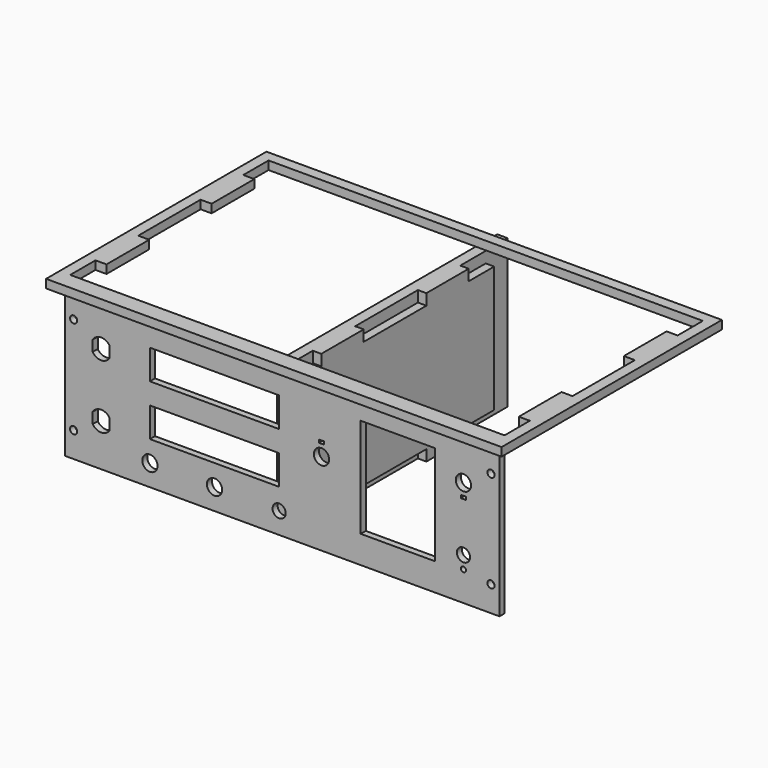
from build123d import *

# Parameters (mm, degrees)
SKETCH008_W   = 205
SKETCH008_H   = 70
SKETCH008_R   = 3.6
SKETCH008_R_2 = 3.1
SKETCH008_R_3 = 1.2
SKETCH008_R_4 = 1.7
SKETCH008_W_2 = 61
SKETCH008_H_2 = 14
SKETCH008_W_3 = 2.5
SKETCH008_H_3 = 1.4
SKETCH008_W_4 = 35
SKETCH008_H_4 = 47
PAD_DEPTH     = 3
SKETCH009_W   = 215
SKETCH009_H   = 130
PAD001_DEPTH  = 4
PAD002_DEPTH  = 4
PAD003_DEPTH  = 5


with BuildPart() as obj1:
    # Sketch008 → Pad (new body)
    with BuildSketch(Plane.XZ):
        with Locations((0, -35)):
            Rectangle(SKETCH008_W, SKETCH008_H)
        with Locations((85.5, -20)):
            Circle(SKETCH008_R, mode=Mode.SUBTRACT)
        with Locations((18.5, -31)):
            Circle(SKETCH008_R, mode=Mode.SUBTRACT)
        with Locations((85.5, -50)):
            Circle(SKETCH008_R_2, mode=Mode.SUBTRACT)
        with Locations((85.5, -56)):
            Circle(SKETCH008_R_3, mode=Mode.SUBTRACT)
        with Locations((-62.5, -60)):
            Circle(SKETCH008_R, mode=Mode.SUBTRACT)
        with Locations((-32, -60)):
            Circle(SKETCH008_R, mode=Mode.SUBTRACT)
        with Locations((-1.5, -60)):
            Circle(SKETCH008_R_2, mode=Mode.SUBTRACT)
        with Locations((-98.5, -12)):
            Circle(SKETCH008_R_4, mode=Mode.SUBTRACT)
        with Locations((-98.5, -58)):
            Circle(SKETCH008_R_4, mode=Mode.SUBTRACT)
        with Locations((98.5, -12)):
            Circle(SKETCH008_R_4, mode=Mode.SUBTRACT)
        with Locations((98.5, -58)):
            Circle(SKETCH008_R_4, mode=Mode.SUBTRACT)
        with Locations((-32, -19)):
            Rectangle(SKETCH008_W_2, SKETCH008_H_2, mode=Mode.SUBTRACT)
        with Locations((-32, -43)):
            Rectangle(SKETCH008_W_2, SKETCH008_H_2, mode=Mode.SUBTRACT)
        with Locations((85.5, -26.1)):
            Rectangle(SKETCH008_W_3, SKETCH008_H_3, mode=Mode.SUBTRACT)
        with Locations((54.5, -33.5)):
            Rectangle(SKETCH008_W_4, SKETCH008_H_4, mode=Mode.SUBTRACT)
        with Locations((18.5, -24.9)):
            Rectangle(SKETCH008_W_3, SKETCH008_H_3, mode=Mode.SUBTRACT)
        with BuildLine():
            Line((-89.5, -17.438262), (-89.5, -22.561738))
            ThreePointArc((-89.5, -22.561738), (-85.5, -24.75), (-81.5, -22.561738))
            Line((-81.5, -17.438262), (-81.5, -22.561738))
            ThreePointArc((-81.5, -17.438262), (-85.5, -15.25), (-89.5, -17.438262))
        make_face(mode=Mode.SUBTRACT)
        with BuildLine():
            Line((-89.5, -47.438262), (-89.5, -52.561738))
            ThreePointArc((-89.5, -52.561738), (-85.5, -54.75), (-81.5, -52.561738))
            Line((-81.5, -47.438262), (-81.5, -52.561738))
            ThreePointArc((-81.5, -47.438262), (-85.5, -45.25), (-89.5, -47.438262))
        make_face(mode=Mode.SUBTRACT)
    extrude(amount=PAD_DEPTH)


with BuildPart() as obj2:
    # Sketch009 → Pad001 (new body)
    with BuildSketch(Plane.XY):
        with Locations((0, 57)):
            Rectangle(SKETCH009_W, SKETCH009_H)
        Polygon((-102.5, 117), (102.5, 117), (102.5, 102.1), (97.3, 102.1), (97.3, 76.9), (102.5, 76.9), (102.5, 40.1), (97.3, 40.1), (97.3, 14.9), (102.5, 14.9), (102.5, 0), (-102.5, 0), (-102.5, 14.9), (-97.3, 14.9), (-97.3, 40.1), (-102.5, 40.1), (-102.5, 76.9), (-97.3, 76.9), (-97.3, 102.1), (-102.5, 102.1), align=None, mode=Mode.SUBTRACT)
    extrude(amount=PAD001_DEPTH)


with BuildPart() as obj3:
    # Sketch010 → Pad002 (new body)
    with BuildSketch(Plane.YZ):
        Polygon((15, -0.255779), (40, -0.255779), (40, -5.455779), (77, -5.455779), (77, -0.255779), (102, -0.255779), (102, -5.455779), (117, -5.455779), (117, -65.055779), (102, -65.055779), (102, -70.255779), (77, -70.255779), (77, -65.055779), (40, -65.055779), (40, -70.255779), (15, -70.255779), (15, -65.055779), (0, -65.055779), (0, -5.455779), (15, -5.455779), align=None)
    extrude(amount=PAD002_DEPTH)

    # Sketch011 → Pad003 (join)
    with BuildSketch(Plane.YZ):
        Polygon((15, -0.255779), (40, -0.255779), (90, -0.255779), (115, -0.255779), (130, -0.255779), (130, -5.455779), (130, -65.055779), (130, -70.255779), (115, -70.255779), (90, -70.255779), (40, -70.255779), (15, -70.255779), (0, -70.255779), (0, -65.055779), (0, -5.455779), (0, -0.255779), align=None)
    extrude(amount=-PAD003_DEPTH)


solid = Compound([obj1.part, obj2.part, obj3.part])
